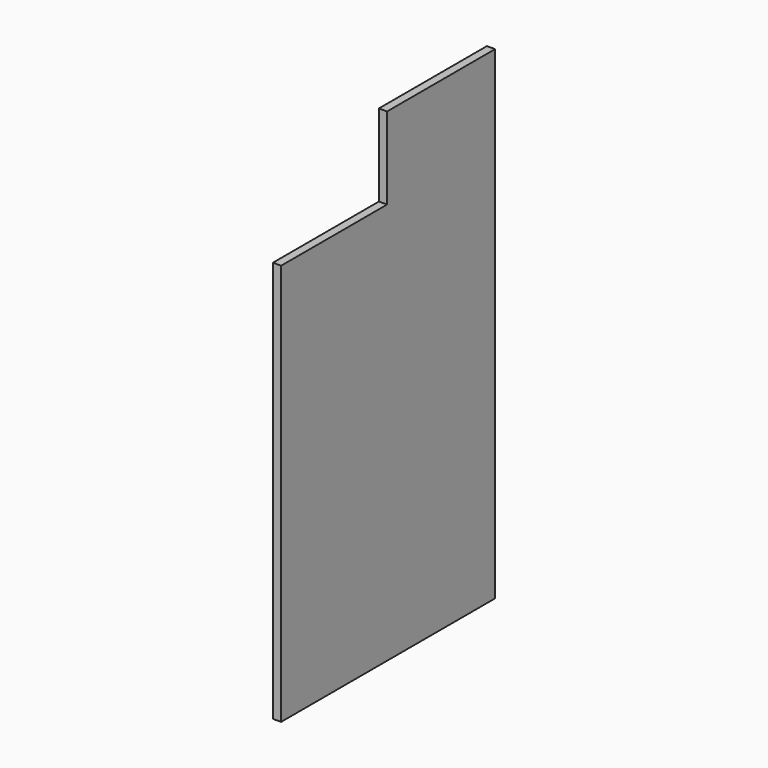
from build123d import *

# Parameters (mm, degrees)
BOX053_W     = 19
BOX053_H     = 620
BOX053_DEPTH = 931
BOX054_W     = 19
BOX054_H     = 313
BOX054_DEPTH = 190


with BuildPart() as blender:
    # Box053 → Box053 (new body)
    with BuildSketch(Plane(origin=(-19, -45, 19), x_dir=(1, 0, 0), z_dir=(0, 0, 1))):
        with Locations((9.5, 310)):
            Rectangle(BOX053_W, BOX053_H)
    extrude(amount=BOX053_DEPTH)


with BuildPart() as blender002:
    # Box054 → Box054 (new body)
    with BuildSketch(Plane(origin=(-19, 262, 950), x_dir=(1, 0, 0), z_dir=(0, 0, 1))):
        with Locations((9.5, 156.5)):
            Rectangle(BOX054_W, BOX054_H)
    extrude(amount=BOX054_DEPTH)

    # Connect: union BlendeR
    add(blender.part)


solid = blender002.part
